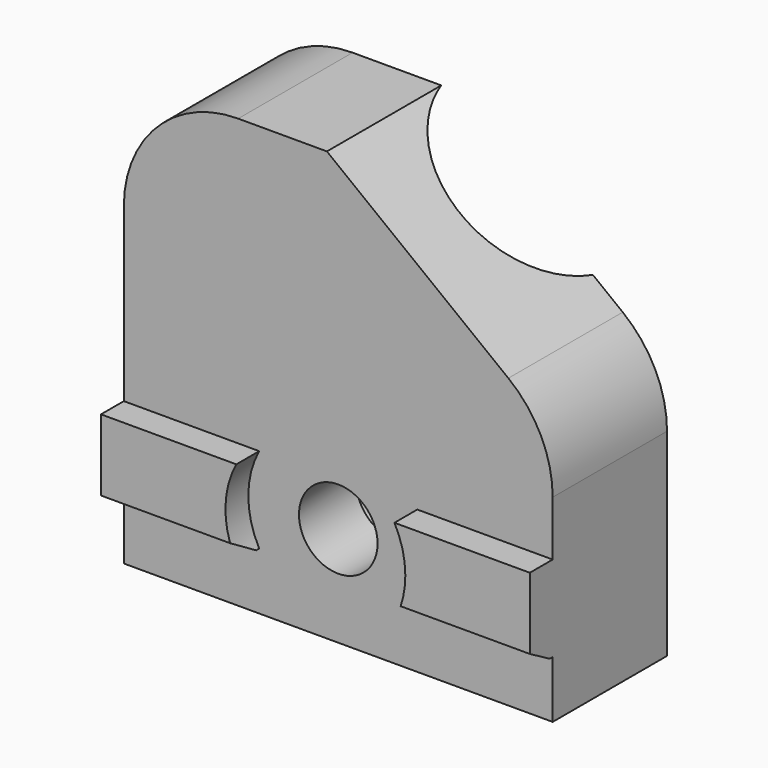
from build123d import *

# Parameters (mm, degrees)
F0_W            = 30
F0_H            = 10
F1_DEPTH        = 30
F6_DEPTH        = 25
F7_R            = 8
F8_W            = 30
F8_H            = 6
F9_DEPTH        = 2
F11_D           = 5.5
F11_DEPTH       = 100
F11_CBORE_D     = 9.75
F11_CBORE_DEPTH = 5
F11_TIP         = 1.6523667023
F12_R           = 2.75
F13_DEPTH       = 2
F14_SIZE2       = 1.7320508076
F14_SIZE        = 1
F14_2_SIZE2     = 1.7320508076
F14_2_SIZE      = 1


with BuildPart() as f1:
    # F0 (on Top) → F1 (new body)
    with BuildSketch(Plane.XY):
        with Locations((0, 5)):
            Rectangle(F0_W, F0_H)
    extrude(amount=F1_DEPTH)

    # F3 (on offset) → F4 (revolve, cut)
    with BuildSketch(Plane.XZ.offset(-12)):
        Polygon((16.9375651661, 30.751099481), (11.3471165957, 34.963804643), (-15.5656658205, -0.7506638978), (-9.9752172501, -4.9633690599), align=None)
        Polygon((9.7408888818, 14.3880629064), (7.7443001067, 15.8926004643), (4.7352249909, 11.8994229141), (6.7318137661, 10.3948853562), align=None)
    revolve(axis=Axis((-2.1092746124, 12, 17.1065703726), (-0.6018150232, 0, -0.79863551)), mode=Mode.SUBTRACT)

    # F5 (on offset) → F6 (intersect)
    with BuildSketch(Plane.XZ.offset(-12)):
        Polygon((3.6727298394, -14.6139401428), (23.5988721657, 11.0938824045), (-9.6680302551, 36.8790702076), (-29.5941725814, 11.1712476603), align=None)
    extrude(amount=F6_DEPTH, mode=Mode.INTERSECT)

    # F7
    f7_edges = [f1.edges().sort_by_distance(p)[0] for p in [
        (-15, 5, 30),
        (15, 5, 17.758871),
    ]]
    fillet(f7_edges, radius=F7_R)

    # F8 (on face) → F9 (join)
    with BuildSketch(Plane.XZ):
        with Locations((0, 7)):
            Rectangle(F8_W, F8_H)
    extrude(amount=F9_DEPTH)

    # F11
    with Locations(Plane(origin=(0, 10, 0), x_dir=(-1, 0, 0), z_dir=(0, 1, 0))):
        with Locations((0, 7)):
            CounterBoreHole(F11_D / 2, F11_CBORE_D / 2, F11_CBORE_DEPTH, depth=F11_DEPTH)
            with Locations((0, 0, -(F11_DEPTH + F11_TIP / 2))):  # 118° drill point
                Cone(0, F11_D / 2, F11_TIP, mode=Mode.SUBTRACT)

    # F12 (on face) → F13 (cut)
    with BuildSketch(Plane.XZ.offset(2)):
        with BuildLine():
            ThreePointArc((5.5302698775, 4), (6.0982775835, 5.4524550305), (6.2915725314, 7))
            ThreePointArc((6.2915725314, 7), (6.0982775835, 8.5475449695), (5.5302698775, 10))
            Line((5.5302698775, 10), (-5.5302698775, 10))
            ThreePointArc((-5.5302698775, 10), (-6.2915725314, 7), (-5.5302698775, 4))
            Line((-5.5302698775, 4), (5.5302698775, 4))
        make_face()
        with Locations((0, 7)):
            Circle(F12_R, mode=Mode.SUBTRACT)
    extrude(amount=-F13_DEPTH, mode=Mode.SUBTRACT)

    # F14
    f14_edges = [f1.edges().sort_by_distance(p)[0] for p in [
        (10.265135, -2, 4),
    ]]
    f14_side = f1.faces().sort_by_distance((10.51932, -2, 7))[0]
    chamfer(f14_edges, length=F14_SIZE, length2=F14_SIZE2, reference=f14_side)

    # F14#2
    f14_2_edges = [f1.edges().sort_by_distance(p)[0] for p in [
        (-10.265135, -2, 4),
    ]]
    f14_2_side = f1.faces().sort_by_distance((-10.51932, -2, 7))[0]
    chamfer(f14_2_edges, length=F14_2_SIZE, length2=F14_2_SIZE2, reference=f14_2_side)


solid = f1.part
